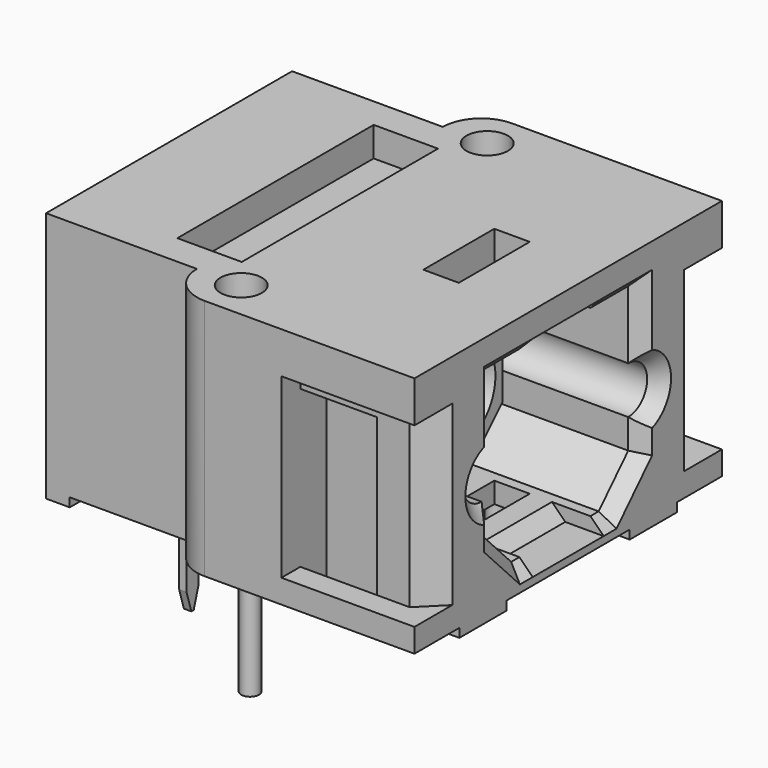
from build123d import *

# Parameters (mm, degrees)
PAD_DEPTH            = 8.5
POCKET_DEPTH         = 6.9
PAD001_DEPTH         = 7.1
SKETCH003_R          = 1.25
POCKET001_DEPTH      = 12.2
SKETCH005_W          = 0.8
SKETCH005_H          = 6
POCKET002_DEPTH      = 4.5
SKETCH006_W          = 2.6
SKETCH006_H          = 1.1
POCKET003_DEPTH      = 6.4
SKETCH007_W          = 4.1
SKETCH007_H          = 0.3
POCKET004_DEPTH      = 3.961
POCKET004_DEPTH_BACK = 9.041
SKETCH008_W          = 1.9
SKETCH008_H          = 0.3
SKETCH008_W_2        = 5.2
POCKET005_DEPTH      = 10.801
SKETCH009_W          = 1.199
SKETCH009_H          = 3
POCKET006_DEPTH      = 8.501
SKETCH010_W          = 2.177
SKETCH010_H          = 8.3
POCKET007_DEPTH      = 1
SKETCH011_R          = 0.7
POCKET008_DEPTH      = 2.6
SKETCH015_W          = 3
SKETCH015_H          = 0.45
POCKET009_DEPTH      = 1.3
CHAMFER_SIZE         = 0.449
CHAMFER001_SIZE      = 0.3
CHAMFER002_SIZE      = 0.25
CHAMFER003_SIZE      = 0.4
CHAMFER004_SIZE      = 0.8
PAD002_DEPTH         = 0.125
ARRAY_Y_COUNT        = 3
ARRAY_Y_PITCH        = 2.54
SKETCH017_R          = 0.3
PAD003_DEPTH         = 0.3
PAD003_DEPTH_BACK    = 3.5
ARRAY001_Y_COUNT     = 2
ARRAY001_Y_PITCH     = 10.4


with BuildPart() as body:
    # Sketch001 → Pad (new body)
    with BuildSketch(Plane.XY):
        with BuildLine():
            Line((-2.7, 2.66), (-2.7, -7.74))
            Line((-2.7, -7.74), (2.4, -7.74))
            ThreePointArc((2.4, -7.74), (2.780761, -8.659239), (3.7, -9.04))
            Line((3.7, -9.04), (10.8, -9.04))
            Line((10.8, -9.04), (10.8, 3.96))
            Line((10.8, 3.96), (3.7, 3.96))
            ThreePointArc((3.7, 3.96), (2.780761, 3.579239), (2.4, 2.66))
            Line((2.4, 2.66), (-2.7, 2.66))
        make_face()
    extrude(amount=PAD_DEPTH)

    # Sketch002 (on DatumPlane) → Pocket (cut)
    with BuildSketch(Plane.YZ.offset(10.8)):
        with BuildLine():
            Line((-5.64, 7.2), (0.56, 7.2))
            Line((0.56, 7.2), (0.56, 4.9))
            ThreePointArc((0.56, 3.3), (1.36, 4.1), (0.56, 4.9))
            Line((0.56, 3.3), (0.56, 2.3))
            Line((0.56, 2.3), (-0.69, 1))
            Line((-0.69, 1), (-4.39, 1))
            Line((-4.39, 1), (-5.64, 2.3))
            Line((-5.64, 2.3), (-5.64, 3.3))
            ThreePointArc((-5.64, 4.9), (-6.44, 4.1), (-5.64, 3.3))
            Line((-5.64, 4.9), (-5.64, 7.2))
        make_face()
    extrude(amount=-POCKET_DEPTH, mode=Mode.SUBTRACT)

    # Sketch → Pad001 (join)
    with BuildSketch(Plane.YZ):
        Polygon((-4.64, 6.2), (-0.44, 6.2), (-0.44, 3.1), (-1.54, 2), (-3.54, 2), (-4.64, 3.1), align=None)
    extrude(amount=PAD001_DEPTH)

    # Sketch003 (on DatumPlane) → Pocket001 (cut)
    with BuildSketch(Plane.YZ.offset(10.8)):
        with Locations((-2.54, 4.1)):
            Circle(SKETCH003_R)
    extrude(amount=-POCKET001_DEPTH, mode=Mode.SUBTRACT)

    # Sketch005 (on DatumPlane) → Pocket002 (cut)
    with BuildSketch(Plane.YZ.offset(10.8)):
        with Locations((-8.64, 4.1)):
            Rectangle(SKETCH005_W, SKETCH005_H)
        with Locations((3.56, 4.1)):
            Rectangle(SKETCH005_W, SKETCH005_H)
    extrude(amount=-POCKET002_DEPTH, mode=Mode.SUBTRACT)

    # Sketch006 → Pocket003 (cut)
    with BuildSketch(Plane.XY):
        with Locations((7.6, 2.61)):
            Rectangle(SKETCH006_W, SKETCH006_H)
        with Locations((7.6, -7.69)):
            Rectangle(SKETCH006_W, SKETCH006_H)
    extrude(amount=POCKET003_DEPTH, mode=Mode.SUBTRACT)

    # Sketch007 → Pocket004 (cut, two sides)
    with BuildSketch(Plane.XZ) as pocket004_sk:
        with Locations((0.15, 0.15)):
            Rectangle(SKETCH007_W, SKETCH007_H)
    extrude(amount=-POCKET004_DEPTH, mode=Mode.SUBTRACT)
    extrude(pocket004_sk.sketch, amount=POCKET004_DEPTH_BACK, mode=Mode.SUBTRACT)

    # Sketch008 → Pocket005 (cut, through all)
    with BuildSketch(Plane.YZ):
        with Locations((-8.09, 0.15)):
            Rectangle(SKETCH008_W, SKETCH008_H)
        with Locations((-2.54, 0.15)):
            Rectangle(SKETCH008_W_2, SKETCH008_H)
        with Locations((3.01, 0.15)):
            Rectangle(SKETCH008_W, SKETCH008_H)
    extrude(amount=POCKET005_DEPTH, mode=Mode.SUBTRACT)

    # Sketch009 → Pocket006 (cut, through all)
    with BuildSketch(Plane.XY):
        with Locations((7.7005, -2.54)):
            Rectangle(SKETCH009_W, SKETCH009_H)
    extrude(amount=POCKET006_DEPTH, mode=Mode.SUBTRACT)

    # Sketch010 (on DatumPlane) → Pocket007 (cut)
    with BuildSketch(Plane.XY.offset(8.5)):
        with Locations((1.9885, -2.54)):
            Rectangle(SKETCH010_W, SKETCH010_H)
    extrude(amount=-POCKET007_DEPTH, mode=Mode.SUBTRACT)

    # Sketch011 (on DatumPlane) → Pocket008 (cut)
    with BuildSketch(Plane.XY.offset(8.5)):
        with Locations((3.9, 2.66)):
            Circle(SKETCH011_R)
        with Locations((3.9, -7.74)):
            Circle(SKETCH011_R)
    extrude(amount=-POCKET008_DEPTH, mode=Mode.SUBTRACT)

    # Sketch015 (on DatumPlane) → Pocket009 (cut)
    with BuildSketch(Plane.YZ.offset(10.8)):
        with Locations((-2.54, 7.425)):
            Rectangle(SKETCH015_W, SKETCH015_H)
        with Locations((-2.54, 0.775)):
            Rectangle(SKETCH015_W, SKETCH015_H)
    extrude(amount=-POCKET009_DEPTH, mode=Mode.SUBTRACT)

    # Chamfer
    chamfer_edges = [body.edges().sort_by_distance(p)[0] for p in [
        (10.8, -5.64, 6.05),
        (10.8, -4.84, 7.2),
        (9.5, -2.54, 7.2),
        (10.8, -0.24, 7.2),
        (10.8, 0.56, 6.05),
        (10.8, 1.36, 4.1),
        (10.8, 0.56, 2.8),
        (10.8, -0.065, 1.65),
        (10.8, -6.44, 4.1),
        (10.8, -5.64, 2.8),
        (10.8, -5.015, 1.65),
        (10.8, -4.215, 1),
        (10.8, -0.865, 1),
        (9.5, -2.54, 1),
    ]]
    chamfer(chamfer_edges, length=CHAMFER_SIZE)

    # Chamfer001
    chamfer001_edges = [body.edges().sort_by_distance(p)[0] for p in [
        (7.1, -3.79, 4.1),
    ]]
    chamfer(chamfer001_edges, length=CHAMFER001_SIZE)

    # Chamfer002
    chamfer002_edges = [body.edges().sort_by_distance(p)[0] for p in [
        (7.1, -2.54, 6.2),
        (7.1, -4.64, 4.65),
        (7.1, -4.09, 2.55),
        (7.1, -0.44, 4.65),
        (7.1, -0.99, 2.55),
        (7.1, -2.54, 2),
    ]]
    chamfer(chamfer002_edges, length=CHAMFER002_SIZE)

    # Chamfer003
    chamfer003_edges = [body.edges().sort_by_distance(p)[0] for p in [
        (3.9, -2.54, 6.2),
        (3.9, -4.64, 4.65),
        (3.9, -0.44, 4.65),
        (3.9, -0.99, 2.55),
        (3.9, -2.54, 2),
        (3.9, -4.09, 2.55),
    ]]
    chamfer(chamfer003_edges, length=CHAMFER003_SIZE)

    # Chamfer004
    chamfer004_edges = [body.edges().sort_by_distance(p)[0] for p in [
        (10.8, -8.24, 4.1),
        (10.8, 3.16, 4.1),
    ]]
    chamfer(chamfer004_edges, length=CHAMFER004_SIZE)


with BuildPart() as array:
    # Sketch016 → Pad002 (new body, symmetric)
    with BuildSketch(Plane.YZ):
        Polygon((-0.25, 0.3), (-0.25, -2.85), (-0.05, -3.5), (0.05, -3.5), (0.25, -2.85), (0.25, 0.3), align=None)
    extrude(amount=PAD002_DEPTH, both=True)

    # Array Y: Array ×3


with BuildPart() as array_1:
    add(array.part)
    with Locations(*[(0, -i * ARRAY_Y_PITCH, 0) for i in range(1, ARRAY_Y_COUNT)]):
        add(array.part)


with BuildPart() as array001:
    # Sketch017 → Pad003 (new body, two sides)
    with BuildSketch(Plane.XY) as pad003_sk:
        Circle(SKETCH017_R)
    extrude(amount=PAD003_DEPTH)
    extrude(pad003_sk.sketch, amount=-PAD003_DEPTH_BACK)

    # Array001 Y: Array001 ×2


with BuildPart() as array001_1:
    add(array001.part)
    with Locations(*[(0, -i * ARRAY001_Y_PITCH, 0) for i in range(1, ARRAY001_Y_COUNT)]):
        add(array001.part)


with BuildPart() as array001_2:
    # Array001 placement: moved
    add(array001_1.part.moved(Location((4.2, 2.66, 0))))


solid = Compound([body.part, array_1.part, array001_2.part])
